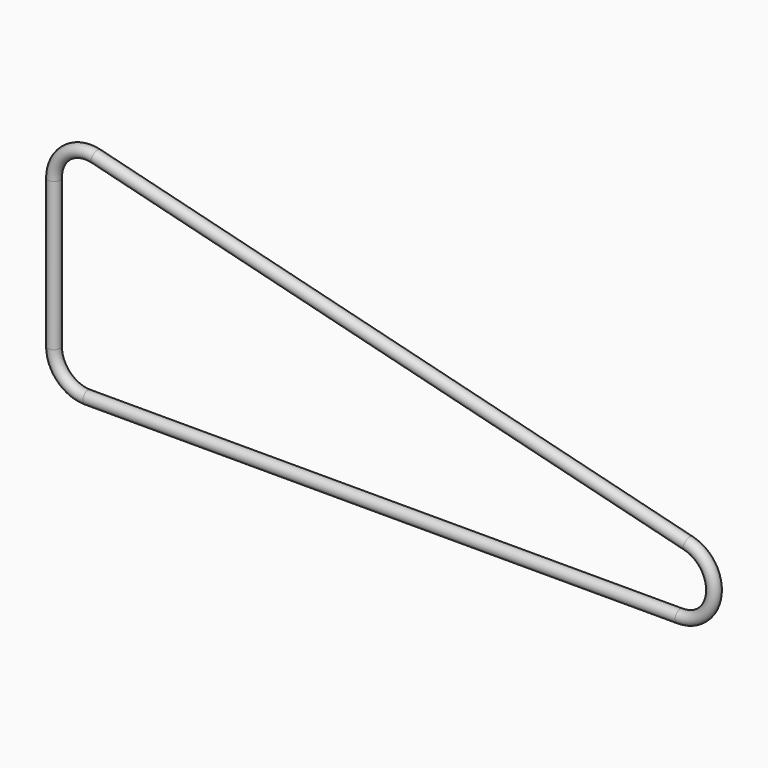
from build123d import *

# Parameters (mm, degrees)
F1_R = 3.175


with BuildPart() as f2:
    # F2: sweep along a path in F0
    with BuildLine(Plane.XZ) as f2_path:
        Line((-304.799999, -1.4e-05), (1e-06, 0))
        ThreePointArc((1e-06, 0), (17.331663, 15.328876), (4.235278, 34.403614))
        Line((4.235278, 34.403614), (-300.564726, 110.603599))
        ThreePointArc((-300.564726, 110.603599), (-315.54664, 107.426522), (-322.262504, 93.662485))
        Line((-322.262504, 93.662485), (-322.2625, 17.462485))
        ThreePointArc((-322.2625, 17.462485), (-317.147852, 5.114633), (-304.799999, -1.4e-05))
    # F1 (on Right) → F2 (sweep)
    with BuildSketch(Plane.YZ):
        Circle(F1_R)
    sweep(path=f2_path.line)


solid = f2.part
